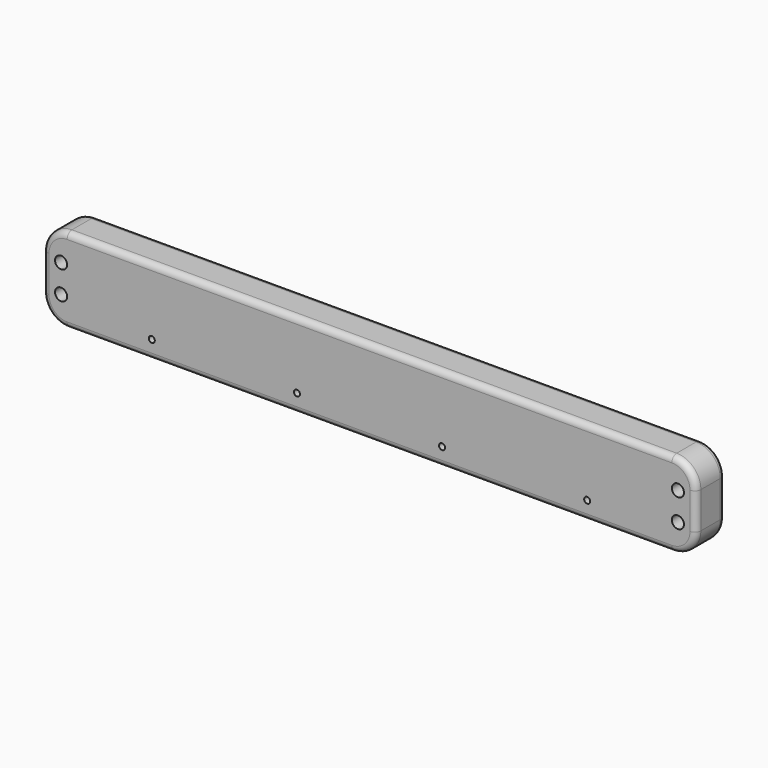
from build123d import *

# Parameters (mm, degrees)
F0_W     = 685.8
F0_H     = 88.9
F0_R     = 3.175
F0_R_2   = 6.35
F1_DEPTH = 38.1
F2_R     = 25.4
F3_R     = 6.35


with BuildPart() as f1:
    # F0 (on Front) → F1 (new body)
    with BuildSketch(Plane.XZ):
        with Locations((176.894678, 19.006401)):
            Rectangle(F0_W, F0_H)
        with Locations((-51.705322, -6.393599)):
            Circle(F0_R, mode=Mode.SUBTRACT)
        with Locations((100.694678, -6.393599)):
            Circle(F0_R, mode=Mode.SUBTRACT)
        with Locations((-146.955322, 4.274401)):
            Circle(F0_R_2, mode=Mode.SUBTRACT)
        with Locations((253.094678, -6.393599)):
            Circle(F0_R, mode=Mode.SUBTRACT)
        with Locations((405.494678, -6.393599)):
            Circle(F0_R, mode=Mode.SUBTRACT)
        with Locations((500.744678, 4.274401)):
            Circle(F0_R_2, mode=Mode.SUBTRACT)
        with Locations((-146.955322, 33.738401)):
            Circle(F0_R_2, mode=Mode.SUBTRACT)
        with Locations((500.744678, 33.738401)):
            Circle(F0_R_2, mode=Mode.SUBTRACT)
    extrude(amount=-F1_DEPTH)

    # F2
    f2_edges = [f1.edges().sort_by_distance(p)[0] for p in [
        (519.794678, 19.05, 63.456401),
        (519.794678, 19.05, -25.443599),
        (-166.005322, 19.05, 63.456401),
        (-166.005322, 19.05, -25.443599),
    ]]
    fillet(f2_edges, radius=F2_R)

    # F3
    f3_edges = [f1.edges().sort_by_distance(p)[0] for p in [
        (176.894678, 0, 63.456401),
        (176.894678, 38.1, 63.456401),
    ]]
    fillet(f3_edges, radius=F3_R)


solid = f1.part
